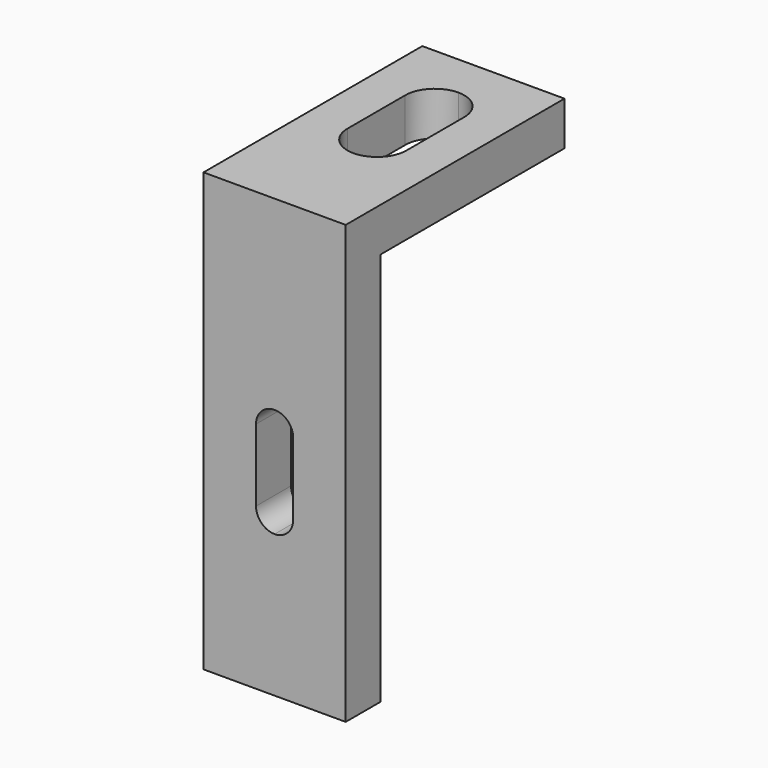
from build123d import *

# Parameters (mm, degrees)
PAD_DEPTH    = 4
PAD001_DEPTH = 4


with BuildPart() as part:
    # Sketch → Pad (new body)
    with BuildSketch(Plane.XZ):
        with BuildLine():
            Line((0, 0), (6.5, 0))
            Line((6.5, 0), (6.5, -40))
            Line((6.5, -40), (0, -40))
            Line((0, -40), (0, -27))
            ThreePointArc((0, -27), (1.202076, -26.502087), (1.7, -25.300015))
            Line((1.7, -18.700016), (1.7, -25.300015))
            ThreePointArc((1.7, -18.700016), (1.202087, -17.497924), (0, -17))
            Line((0, -17), (0, 0))
        make_face()
    pad = extrude(amount=-PAD_DEPTH)

    # Sketch001 → Pad001 (join)
    with BuildSketch(Plane.XY):
        with BuildLine():
            Line((0, 0), (6.5, 0))
            Line((6.5, 0), (6.5, 25))
            Line((6.5, 25), (0, 25))
            Line((0, 25), (0, 21))
            ThreePointArc((2.7, 18.3), (1.909188, 20.209188), (0, 21))
            Line((2.7, 11.7), (2.7, 18.3))
            ThreePointArc((0, 9), (1.909188, 9.790812), (2.7, 11.7))
            Line((0, 9), (0, 0))
        make_face()
    pad001 = extrude(amount=-PAD001_DEPTH)

    # Mirrored: Pad, Pad001 across Sketch V_Axis
    add(pad.mirror(Plane(origin=(0, 0, 0), x_dir=(0, -1, 0), z_dir=(1, 0, 0))))
    add(pad001.mirror(Plane(origin=(0, 0, 0), x_dir=(0, -1, 0), z_dir=(1, 0, 0))))


solid = part.part
